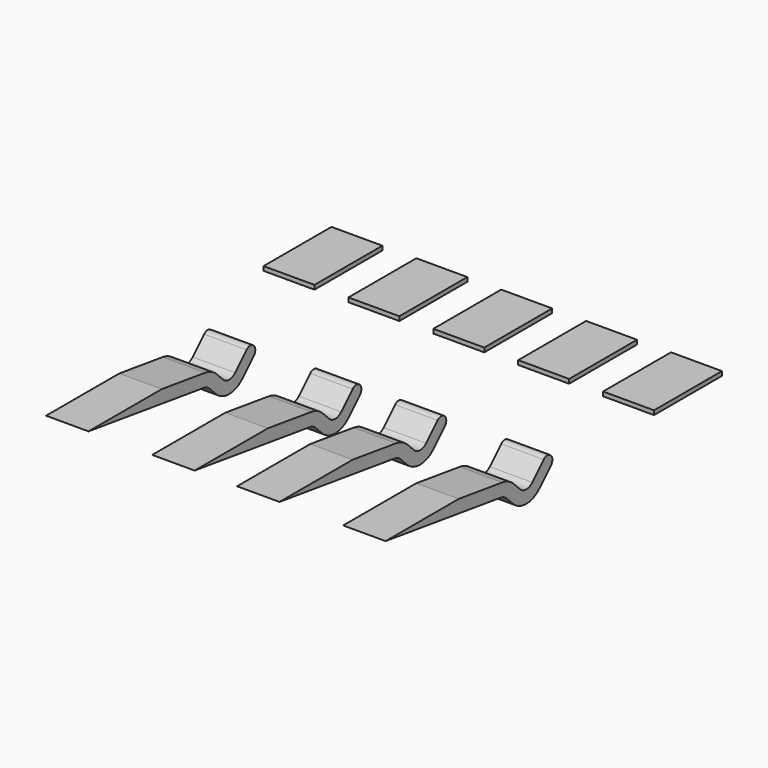
from build123d import *

# Parameters (mm, degrees)
EXTRUDE010_DEPTH = 1
BOX053_W         = 1.2
BOX053_H         = 2
BOX053_DEPTH     = 0.1
ARRAY015_X_COUNT = 5
ARRAY015_X_PITCH = 2


with BuildPart() as extrude017:
    # Sketch014 → Extrude010 (new body)
    with BuildSketch(Plane.YZ):
        with BuildLine():
            Line((1.279699, -0.17985), (0, 0))
            Line((0, 0), (-2.155589, 0))
            Line((-2.155589, 0), (1.237947, -0.47693))
            ThreePointArc((1.408328, -0.561879), (1.330055, -0.505531), (1.237947, -0.47693))
            Line((1.408328, -0.561879), (1.596448, -0.749999))
            ThreePointArc((1.596448, -0.749999), (1.985356, -0.91109), (2.374264, -0.75))
            Line((2.374264, -0.75), (2.712132, -0.412132))
            ThreePointArc((2.712132, -0.412132), (2.712132, -0.2), (2.5, -0.2))
            Line((2.162133, -0.537867), (2.5, -0.2))
            ThreePointArc((1.80858, -0.537867), (1.985356, -0.61109), (2.162133, -0.537867))
            Line((1.62046, -0.349747), (1.80858, -0.537867))
            ThreePointArc((1.62046, -0.349747), (1.463914, -0.23705), (1.279699, -0.17985))
        make_face()
    extrude(amount=EXTRUDE010_DEPTH)


with BuildPart() as extrude017_1:
    # Extrude010 placement: moved
    add(extrude017.part.moved(Location((-4, 0, 0))))


with BuildPart() as extrude010:
    # Clone021 base: copy of Extrude017
    add(extrude017_1.part)


with BuildPart() as extrude010_1:
    # Clone021 placement: moved
    add(extrude010.part.moved(Location((2.5, 0, 0))))


with BuildPart() as extrude011:
    # Clone022 base: copy of Extrude017
    add(extrude017_1.part)


with BuildPart() as extrude011_1:
    # Clone022 placement: moved
    add(extrude011.part.moved(Location((4.5, 0, 0))))


with BuildPart() as extrude012:
    # Clone023 base: copy of Extrude017
    add(extrude017_1.part)


with BuildPart() as extrude012_1:
    # Clone023 placement: moved
    add(extrude012.part.moved(Location((7, 0, 0))))


with BuildPart() as fusion040:
    # Fusion040 base: copy of Extrude017
    add(extrude017_1.part)

    # Fusion040: union Extrude010, Extrude011, Extrude012
    add(extrude010_1.part)
    add(extrude011_1.part)
    add(extrude012_1.part)


with BuildPart() as fusion040_1:
    # Fusion040 placement: moved
    add(fusion040.part.moved(Location((0, 10, 12.6))))


with BuildPart() as clone025:
    # Box053 → Box053 (new body)
    with BuildSketch(Plane(origin=(-4.6, 15, 12.5), x_dir=(1, 0, 0), z_dir=(0, 0, 1))):
        with Locations((0.6, 1)):
            Rectangle(BOX053_W, BOX053_H)
    extrude(amount=BOX053_DEPTH)

    # Array015 X: Clone025 ×5


with BuildPart() as clone025_1:
    add(clone025.part)
    with Locations(*[(i * ARRAY015_X_PITCH, 0, 0) for i in range(1, ARRAY015_X_COUNT)]):
        add(clone025.part)

    # Fusion041: union Fusion040
    add(fusion040_1.part)


with BuildPart() as clone025_2:
    # Clone025 placement: moved
    add(clone025_1.part.moved(Location((0, 0, -8.4))))


solid = clone025_2.part
